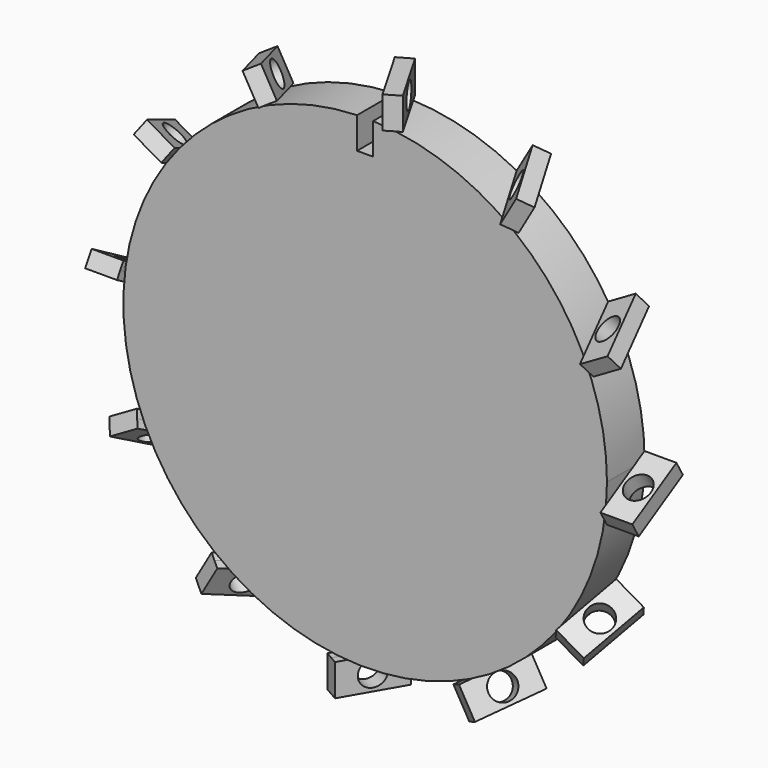
from build123d import *

# Parameters (mm, degrees)
F2_DEPTH = 5
F3_ANGLE = 30
F5_D     = 2
F6_COUNT = 12
F7_DEPTH = 3.7


with BuildPart() as f2:
    # F1 (on face) → F2 (new body)
    with BuildSketch(Plane.XZ):
        with BuildLine():
            ThreePointArc((-124.9427869916, 63.0714740438), (-124.6281406667, 63.079373086), (-124.3134066463, 63.0820565589))
            ThreePointArc((-124.3134066463, 63.0820565589), (-123.998673875, 63.0795237663), (-123.6840263009, 63.0717754456))
            Line((-123.6840263009, 63.0717754456), (-123.6840263009, 65.5792318285))
            Line((-123.6840263009, 65.5792318285), (-124.9427869916, 65.5792318285))
            Line((-124.9427869916, 65.5792318285), (-124.9427869916, 63.0714740438))
        make_face()
    extrude(amount=F2_DEPTH)


with BuildPart() as f2_1:
    # F3: moved
    add(f2.part.rotate(Axis((-124.9427869916, 0, 64.3253529361), (0, 0, 1)), F3_ANGLE))

    # F5 (through all)
    with Locations(Plane(origin=(-93.7070902437, -54.1018137772, 0), x_dir=(0.5, -0.8660254038, 0), z_dir=(-0.8660254038, -0.5, 0))):
        with Locations((-59.9713934958, 64.3148049712)):
            Hole(F5_D / 2)


with BuildPart() as f6_1:
    # F6: instance of F2
    add(f2_1.part.rotate(Axis((-124.3088617921, 0, 44.0907068551), (0, -1, 0)), 1 * 360 / F6_COUNT))


with BuildPart() as f6_2:
    # F6: instance of F2
    add(f2_1.part.rotate(Axis((-124.3088617921, 0, 44.0907068551), (0, -1, 0)), 2 * 360 / F6_COUNT))


with BuildPart() as f6_3:
    # F6: instance of F2
    add(f2_1.part.rotate(Axis((-124.3088617921, 0, 44.0907068551), (0, -1, 0)), 3 * 360 / F6_COUNT))


with BuildPart() as f6_4:
    # F6: instance of F2
    add(f2_1.part.rotate(Axis((-124.3088617921, 0, 44.0907068551), (0, -1, 0)), 4 * 360 / F6_COUNT))


with BuildPart() as f6_5:
    # F6: instance of F2
    add(f2_1.part.rotate(Axis((-124.3088617921, 0, 44.0907068551), (0, -1, 0)), 5 * 360 / F6_COUNT))


with BuildPart() as f6_6:
    # F6: instance of F2
    add(f2_1.part.rotate(Axis((-124.3088617921, 0, 44.0907068551), (0, -1, 0)), 6 * 360 / F6_COUNT))


with BuildPart() as f6_7:
    # F6: instance of F2
    add(f2_1.part.rotate(Axis((-124.3088617921, 0, 44.0907068551), (0, -1, 0)), 7 * 360 / F6_COUNT))


with BuildPart() as f6_8:
    # F6: instance of F2
    add(f2_1.part.rotate(Axis((-124.3088617921, 0, 44.0907068551), (0, -1, 0)), 8 * 360 / F6_COUNT))


with BuildPart() as f6_9:
    # F6: instance of F2
    add(f2_1.part.rotate(Axis((-124.3088617921, 0, 44.0907068551), (0, -1, 0)), 9 * 360 / F6_COUNT))


with BuildPart() as f6_10:
    # F6: instance of F2
    add(f2_1.part.rotate(Axis((-124.3088617921, 0, 44.0907068551), (0, -1, 0)), 10 * 360 / F6_COUNT))


with BuildPart() as f6_11:
    # F6: instance of F2
    add(f2_1.part.rotate(Axis((-124.3088617921, 0, 44.0907068551), (0, -1, 0)), 11 * 360 / F6_COUNT))


with BuildPart() as f7:
    # F1 (on face) → F7 (new body)
    with BuildSketch(Plane.XZ):
        with BuildLine():
            Line((-123.6840263009, 60.6054253876), (-124.3134066463, 60.6054253876))
            Line((-124.3134066463, 60.6054253876), (-124.9427869916, 60.6054253876))
            Line((-124.9427869916, 60.6054253876), (-124.9427869916, 63.0714740438))
            ThreePointArc((-124.9427869916, 63.0714740438), (-137.5117457334, 30.4395076454), (-105.3175115444, 44.0907068551))
            ThreePointArc((-105.3175115444, 44.0907068551), (-110.6608243161, 57.2968591064), (-123.6840263009, 63.0717754456))
            Line((-123.6840263009, 63.0717754456), (-123.6840263009, 60.6054253876))
        make_face()
    extrude(amount=F7_DEPTH)


solid = Compound([f2_1.part, f6_1.part, f6_2.part, f6_3.part, f6_4.part, f6_5.part, f6_6.part, f6_7.part, f6_8.part, f6_9.part, f6_10.part, f6_11.part, f7.part])
